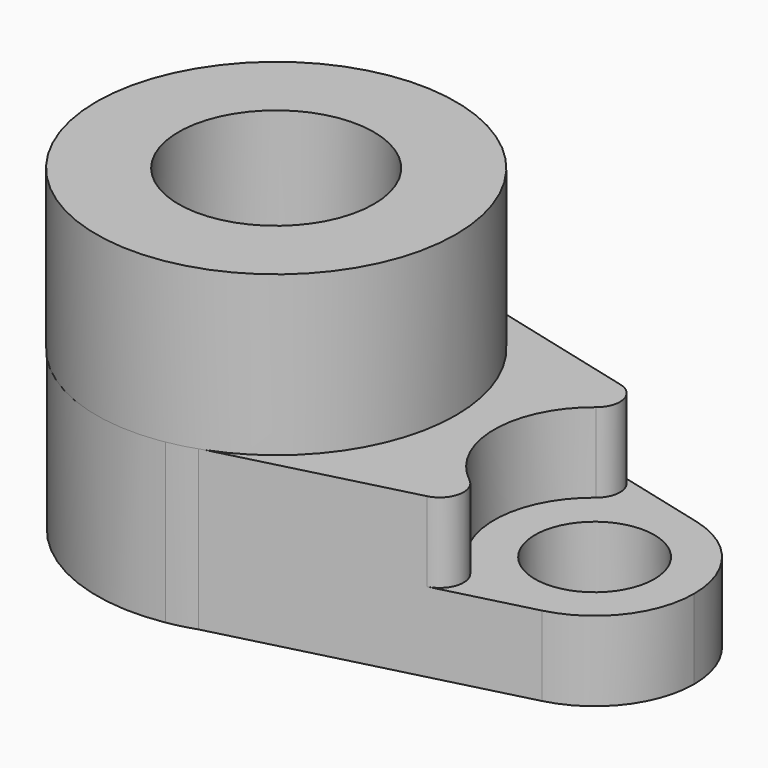
from build123d import *

# Parameters (mm, degrees)
F0_R     = 15.875
F0_R_2   = 9.525
F1_DEPTH = 25.4
F2_R     = 28.672816
F2_R_2   = 15.580682
F3_DEPTH = 25.4
F4_R     = 16.011724
F4_R_2   = 9.452636
F5_DEPTH = 12.7
F6_R     = 3.81


with BuildPart() as f1:
    # F0 (on Top) → F1 (new body)
    with BuildSketch(Plane.XY):
        with BuildLine():
            Line((9.242882, 27.038856), (4.901954, 28.151403))
            ThreePointArc((4.901954, 28.151403), (-28.575, 0), (4.901954, -28.151403))
            Line((4.901954, -28.151403), (9.242882, -27.038856))
            ThreePointArc((9.242882, -27.038856), (23.244849, -16.619496), (28.575, 0))
            ThreePointArc((28.575, 0), (23.244849, 16.619496), (9.242882, 27.038856))
        make_face()
        Circle(F0_R, mode=Mode.SUBTRACT)
        with BuildLine():
            ThreePointArc((9.242882, 27.038856), (7.094261, 27.680356), (4.901954, 28.151403))
            Line((4.901954, 28.151403), (9.242882, 27.038856))
        make_face()
        with BuildLine():
            Line((9.242882, -27.038856), (4.901954, -28.151403))
            ThreePointArc((4.901954, -28.151403), (7.094261, -27.680356), (9.242882, -27.038856))
        make_face()
        with BuildLine():
            Line((54.741256, 15.377975), (9.242882, 27.038856))
            ThreePointArc((9.242882, 27.038856), (23.244849, 16.619496), (28.575, 0))
            Line((28.575, 0), (34.925, 0))
            ThreePointArc((34.925, 0), (41.06737, 12.541592), (54.741256, 15.377975))
        make_face()
        with BuildLine():
            ThreePointArc((28.575, 0), (23.244849, -16.619496), (9.242882, -27.038856))
            Line((9.242882, -27.038856), (54.741256, -15.377975))
            ThreePointArc((54.741256, -15.377975), (41.06737, -12.541592), (34.925, 0))
            Line((34.925, 0), (28.575, 0))
        make_face()
        with BuildLine():
            ThreePointArc((66.675, 0), (63.341592, 9.73263), (54.741256, 15.377975))
            ThreePointArc((54.741256, 15.377975), (41.06737, 12.541592), (34.925, 0))
            ThreePointArc((34.925, 0), (41.06737, -12.541592), (54.741256, -15.377975))
            ThreePointArc((54.741256, -15.377975), (63.341592, -9.73263), (66.675, 0))
        make_face()
        with Locations((50.8, 0)):
            Circle(F0_R_2, mode=Mode.SUBTRACT)
    extrude(amount=F1_DEPTH)

    # F2 (on face) → F3 (join)
    with BuildSketch(Plane.XY.offset(25.4)):
        Circle(F2_R)
        Circle(F2_R_2, mode=Mode.SUBTRACT)
    extrude(amount=F3_DEPTH)

    # F4 (on face) → F5 (cut)
    with BuildSketch(Plane.XY.offset(25.4)):
        with Locations((50.8, 0)):
            Circle(F4_R)
        with Locations((50.8, 0)):
            Circle(F4_R_2, mode=Mode.SUBTRACT)
    extrude(amount=-F5_DEPTH, mode=Mode.SUBTRACT)

    # F6
    f6_edges = [f1.edges().sort_by_distance(p)[0] for p in [
        (52.718644, -15.896355, 19.05),
        (52.718644, 15.896355, 19.05),
    ]]
    fillet(f6_edges, radius=F6_R)


solid = f1.part
